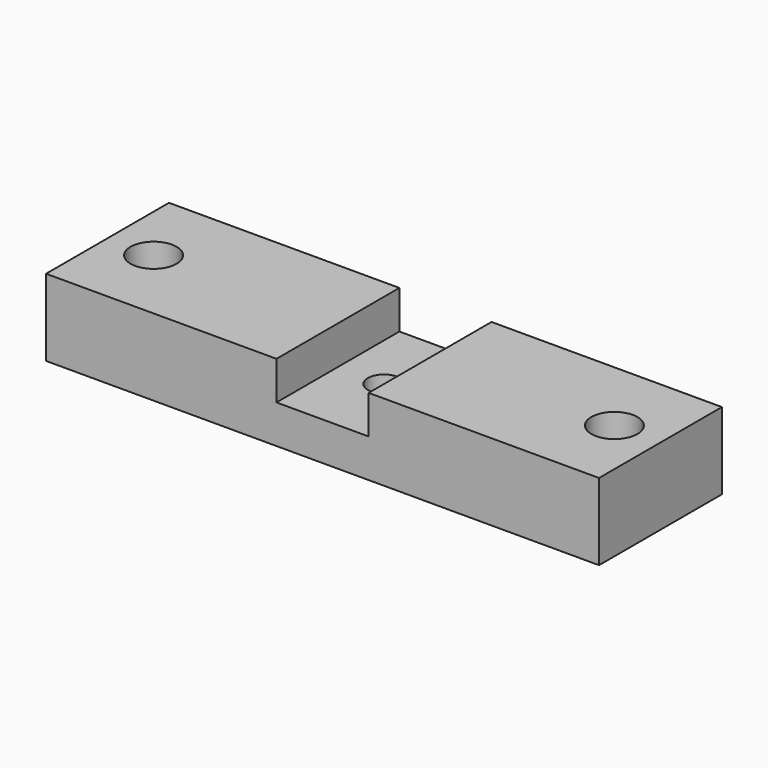
from build123d import *

# Parameters (mm, degrees)
F0_W     = 72
F0_H     = 20
F1_DEPTH = 10
F2_W     = 12
F2_H     = 20
F3_DEPTH = 5
F4_R     = 3
F4_R_2   = 2.1
F5_DEPTH = 25


with BuildPart() as f1:
    # F0 (on Top) → F1 (new body)
    with BuildSketch(Plane.XY):
        with Locations((36, 10)):
            Rectangle(F0_W, F0_H)
    extrude(amount=F1_DEPTH)

    # F2 (on face) → F3 (cut)
    with BuildSketch(Plane.XY.offset(10)):
        with Locations((36, 10)):
            Rectangle(F2_W, F2_H)
    extrude(amount=-F3_DEPTH, mode=Mode.SUBTRACT)

    # F4 (on face) → F5 (cut)
    with BuildSketch(Plane.XY.offset(10)):
        with Locations((6, 10)):
            Circle(F4_R)
        with Locations((66, 10)):
            Circle(F4_R)
        with Locations((36, 10)):
            Circle(F4_R_2)
    extrude(amount=-F5_DEPTH, mode=Mode.SUBTRACT)


solid = f1.part
